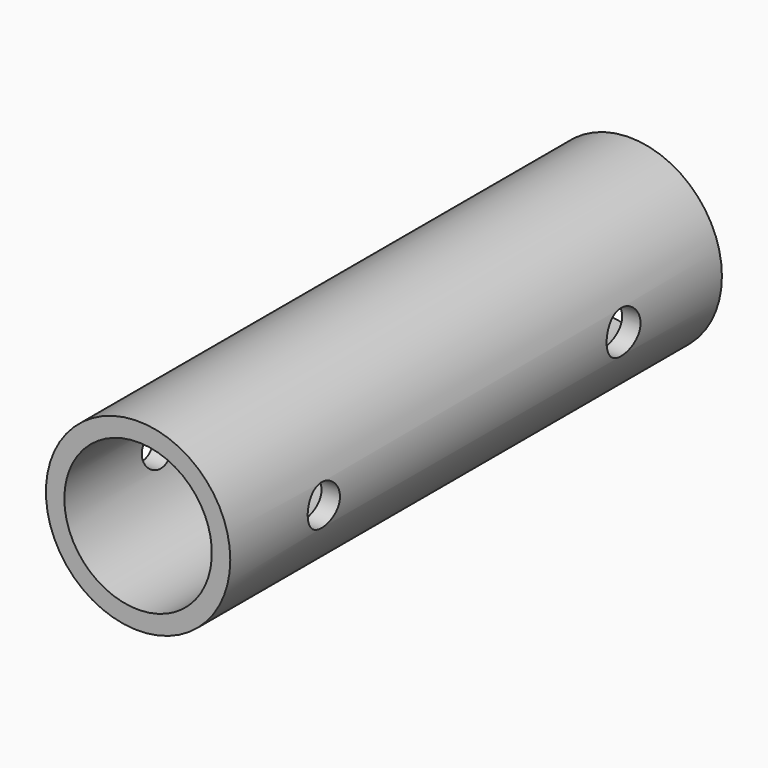
from build123d import *

# Parameters (mm, degrees)
F0_R     = 19.05
F1_DEPTH = 127
F2_R     = 15.24
F3_DEPTH = 127
F4_R     = 4.169678
F4_R_2   = 4.387646
F5_DEPTH = 50.8
F6_DEPTH = 25.4


with BuildPart() as f1:
    # F0 (on Front) → F1 (new body)
    with BuildSketch(Plane.XZ):
        Circle(F0_R)
    extrude(amount=F1_DEPTH)

    # F2 (on face) → F3 (cut)
    with BuildSketch(Plane(origin=(0, 0, 0), x_dir=(-1, 0, 0), z_dir=(0, 1, 0))):
        Circle(F2_R)
    extrude(amount=-F3_DEPTH, mode=Mode.SUBTRACT)

    # F4 (on Right) → F5 (cut)
    with BuildSketch(Plane.YZ):
        with Locations((-102.829032, 0)):
            Circle(F4_R)
        with Locations((-25.400002, 0)):
            Circle(F4_R_2)
    extrude(amount=-F5_DEPTH, mode=Mode.SUBTRACT)

    # F4 (on Right) → F6 (cut)
    with BuildSketch(Plane.YZ):
        with Locations((-102.829032, 0)):
            Circle(F4_R)
        with Locations((-25.400002, 0)):
            Circle(F4_R_2)
    extrude(amount=F6_DEPTH, mode=Mode.SUBTRACT)


solid = f1.part
